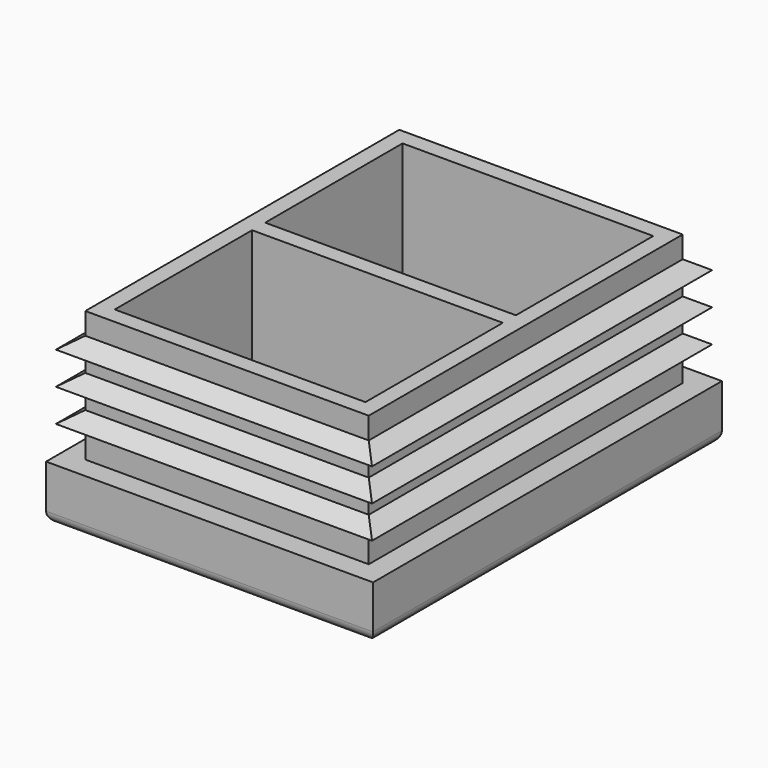
from build123d import *

# Parameters (mm, degrees)
F0_W     = 30
F0_H     = 40
F1_DEPTH = 5
F2_R     = 1
F3_W     = 26
F3_H     = 36
F3_W_2   = 23
F3_H_2   = 1.5
F4_DEPTH = 12


with BuildPart() as f1:
    # F0 (on Top) → F1 (new body)
    with BuildSketch(Plane.XY):
        Rectangle(F0_W, F0_H)
    extrude(amount=F1_DEPTH)

    # F2
    f2_edges = [f1.edges().sort_by_distance(p)[0] for p in [
        (0, -20, 0),
        (15, 0, 0),
        (0, 20, 0),
        (-15, 0, 0),
    ]]
    fillet(f2_edges, radius=F2_R)

    # F3 (on face) → F4 (join)
    with BuildSketch(Plane.XY.offset(5)):
        Rectangle(F3_W, F3_H)
        Polygon((-11.5, 16.5), (11.5, 16.5), (11.5, 0.75), (11.5, -0.75), (11.5, -16.5), (-11.5, -16.5), (-11.5, -0.75), (-11.5, 0.75), align=None, mode=Mode.SUBTRACT)
        Rectangle(F3_W_2, F3_H_2)
    extrude(amount=F4_DEPTH)

    # F6: sweep along a path in F6_path
    with BuildLine(Plane(origin=(-13, 18, 17), x_dir=(0, -1, 0), z_dir=(0, 0, -1))) as f6_path:
        Line((0, 0), (36, 0))
        Line((36, 0), (36, -26))
        Line((36, -26), (0, -26))
        Line((0, -26), (0, 0))
    # F5 (on face) → F6 (sweep)
    with BuildSketch(Plane.XZ.offset(18)):
        Polygon((-14.5, 8), (-13, 7), (-13, 9), align=None)
        Polygon((-14.5, 11), (-13, 10), (-13, 12), align=None)
        Polygon((-14.5, 14), (-13, 13), (-13, 15), align=None)
    sweep(path=f6_path.line, transition=Transition.RIGHT)


solid = f1.part
